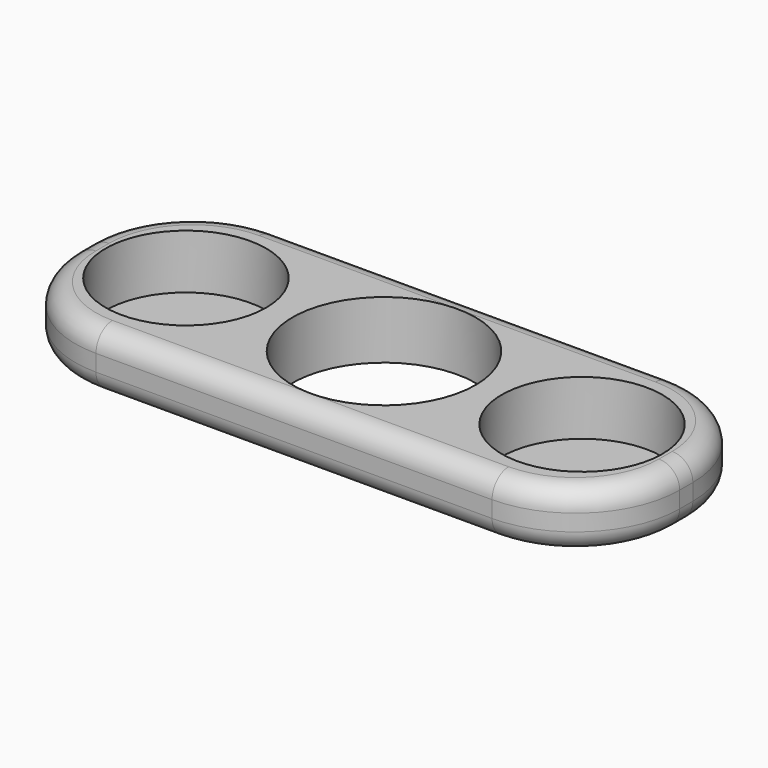
from build123d import *

# Parameters (mm, degrees)
F0_R     = 9.725
F0_R_2   = 11.1
F1_DEPTH = 7
F2_R     = 2.5
F3_R     = 9.75
F4_DEPTH = 0.4


with BuildPart() as f1:
    # F0 (on Top) → F1 (new body)
    with BuildSketch(Plane.XY):
        with BuildLine():
            Line((24, 13.625), (-24, 13.625))
            ThreePointArc((-24, 13.625), (-32.927223, 9.927223), (-36.625, 1))
            Line((-36.625, 1), (-36.625, -1))
            ThreePointArc((-36.625, -1), (-32.927223, -9.927223), (-24, -13.625))
            Line((-24, -13.625), (24, -13.625))
            ThreePointArc((24, -13.625), (32.927223, -9.927223), (36.625, -1))
            Line((36.625, -1), (36.625, 1))
            ThreePointArc((36.625, 1), (32.927223, 9.927223), (24, 13.625))
        make_face()
        with Locations((-24, 0)):
            Circle(F0_R, mode=Mode.SUBTRACT)
        Circle(F0_R_2, mode=Mode.SUBTRACT)
        with Locations((24, 0)):
            Circle(F0_R, mode=Mode.SUBTRACT)
    extrude(amount=F1_DEPTH)

    # F2
    f2_edges = [f1.edges().sort_by_distance(p)[0] for p in [
        (0, -13.625, 7),
        (0, -13.625, 0),
    ]]
    fillet(f2_edges, radius=F2_R)

    # F3 (on Top) → F4 (join)
    with BuildSketch(Plane.XY):
        with Locations((-24, 0)):
            Circle(F3_R)
        with Locations((24, 0)):
            Circle(F3_R)
    extrude(amount=F4_DEPTH)


solid = f1.part
